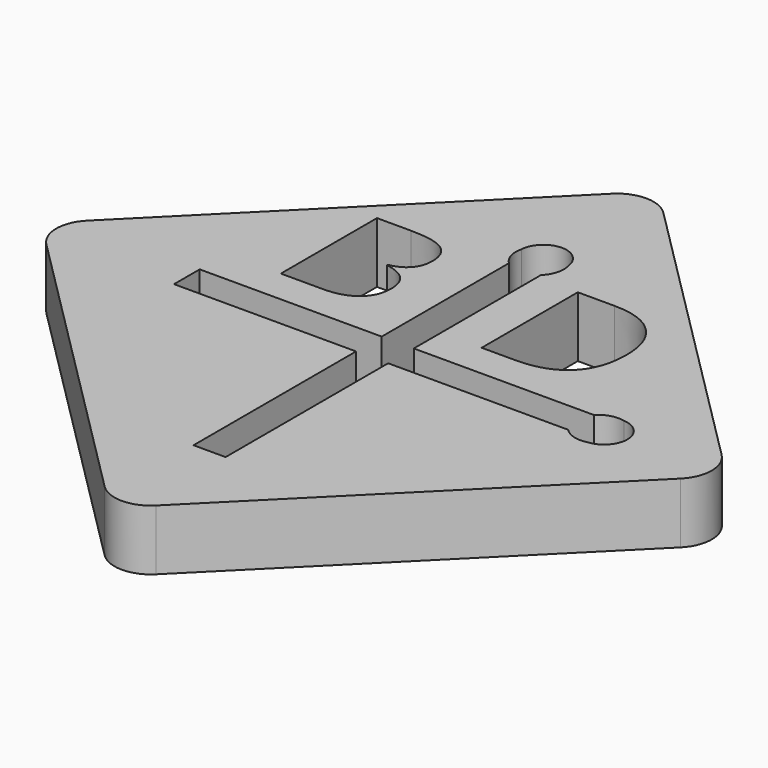
from build123d import *

# Parameters (mm, degrees)
F1_DEPTH = 2.5
F2_R     = 0.85
F3_DEPTH = 12.5


with BuildPart() as f1:
    # F0 (on Top) → F1 (new body)
    with BuildSketch(Plane.XY):
        with BuildLine():
            Line((13.081475452, -13.081475452), (1.0606601718, -1.0606601718))
            ThreePointArc((1.0606601718, -1.0606601718), (0, -0.6213203436), (-1.0606601718, -1.0606601718))
            Line((-1.0606601718, -1.0606601718), (-13.081475452, -13.081475452))
            ThreePointArc((-13.081475452, -13.081475452), (-13.5208152802, -14.1421356237), (-13.081475452, -15.2027957955))
            Line((-13.081475452, -15.2027957955), (-1.0606601718, -27.2236110757))
            ThreePointArc((-1.0606601718, -27.2236110757), (0, -27.6629509039), (1.0606601718, -27.2236110757))
            Line((1.0606601718, -27.2236110757), (13.081475452, -15.2027957955))
            ThreePointArc((13.081475452, -15.2027957955), (13.5208152802, -14.1421356237), (13.081475452, -13.081475452))
        make_face()
        with BuildLine():
            Line((-5.9082568333, -12.0771760074), (-5.9082568333, -7.1194937158))
            Line((-5.9082568333, -7.1194937158), (-4.5074321806, -7.1194937158))
            add(Edge.make_bspline(
                [(-4.5074321806, -7.1194937158), (-3.5211040556, -7.1194937158), (-3.0800233264, -7.4146326047)],
                knots=[0, 0, 0, 1, 1, 1], degree=2))
            add(Edge.make_bspline(
                [(-3.0800233264, -7.4146326047), (-2.6389425972, -7.7097714936), (-2.6389425972, -8.3467072574)],
                knots=[0, 0, 0, 1, 1, 1], degree=2))
            add(Edge.make_bspline(
                [(-2.6389425972, -8.3467072574), (-2.6389425972, -8.7883305213), (-2.8847108264, -9.0747888547)],
                knots=[0, 0, 0, 1, 1, 1], degree=2))
            add(Edge.make_bspline(
                [(-2.8847108264, -9.0747888547), (-3.1304790556, -9.361247188), (-3.6024842639, -9.4458826047)],
                knots=[0, 0, 0, 1, 1, 1], degree=2))
            Line((-3.6024842639, -9.4458826047), (-3.6024842639, -9.4795197574))
            add(Edge.make_bspline(
                [(-3.6024842639, -9.4795197574), (-2.4729269722, -9.6726621186), (-2.4729269722, -10.6665857297)],
                knots=[0, 0, 0, 1, 1, 1], degree=2))
            add(Edge.make_bspline(
                [(-2.4729269722, -10.6665857297), (-2.4729269722, -11.3306482297), (-2.9221457222, -11.7039121186)],
                knots=[0, 0, 0, 1, 1, 1], degree=2))
            add(Edge.make_bspline(
                [(-2.9221457222, -11.7039121186), (-3.3713644722, -12.0771760074), (-4.1786561389, -12.0771760074)],
                knots=[0, 0, 0, 1, 1, 1], degree=2))
            Line((-4.1786561389, -12.0771760074), (-5.9082568333, -12.0771760074))
        make_face(mode=Mode.SUBTRACT)
        with BuildLine():
            Line((-8.1334756687, -14.8039748892), (-8.1334756687, -13.4802963582))
            Line((-8.1334756687, -13.4802963582), (-0.6236797201, -13.4802963582))
            Line((-0.6236797201, -13.4802963582), (-0.6236797201, -6.9198086858))
            ThreePointArc((-0.6236797201, -6.9198086858), (-0.9032194318, -6.4583786209), (-0.9135835525, -5.9189782686))
            ThreePointArc((-0.9135835525, -5.9189782686), (0.0168397474, -5.0141534426), (0.9868078824, -5.876451129))
            ThreePointArc((0.9868078824, -5.876451129), (0.9900106564, -6.4384308628), (0.6999988109, -6.9198086858))
            Line((0.6999988109, -6.9198086858), (0.6999988109, -13.4802963582))
            Line((0.6999988109, -13.4802963582), (8.1334756687, -13.4802963582))
            ThreePointArc((8.1334756687, -13.4802963582), (8.5949057336, -13.2007566465), (9.134306086, -13.1903925258))
            ThreePointArc((9.134306086, -13.1903925258), (10.0391309119, -14.1208158258), (9.1768332255, -15.0907839607))
            ThreePointArc((9.1768332255, -15.0907839607), (8.6148534917, -15.0939867347), (8.1334756687, -14.8039748892))
            Line((8.1334756687, -14.8039748892), (0.6999988109, -14.8039748892))
            Line((0.6999988109, -14.8039748892), (0.6999988109, -23.1867600232))
            Line((0.6999988109, -23.1867600232), (-0.6236797201, -23.1867600232))
            Line((-0.6236797201, -23.1867600232), (-0.6236797201, -14.8039748892))
            Line((-0.6236797201, -14.8039748892), (-8.1334756687, -14.8039748892))
        make_face(mode=Mode.SUBTRACT)
        with BuildLine():
            add(Edge.make_bspline(
                [(5.6933566328, -7.7602282705), (6.3340901397, -8.4009617774), (6.3340901397, -9.5511353885)],
                knots=[0, 0, 0, 1, 1, 1], degree=2))
            add(Edge.make_bspline(
                [(6.3340901397, -9.5511353885), (6.3340901397, -10.7783489302), (5.6678575008, -11.4277629927)],
                knots=[0, 0, 0, 1, 1, 1], degree=2))
            add(Edge.make_bspline(
                [(5.6678575008, -11.4277629927), (5.0016248619, -12.0771770552), (3.7505397925, -12.0771770552)],
                knots=[0, 0, 0, 1, 1, 1], degree=2))
            Line((3.7505397925, -12.0771770552), (2.3768418758, -12.0771770552))
            Line((2.3768418758, -12.0771770552), (2.3768418758, -7.1194947635))
            Line((2.3768418758, -7.1194947635), (3.8959390981, -7.1194947635))
            add(Edge.make_bspline(
                [(3.8959390981, -7.1194947635), (5.0526231258, -7.1194947635), (5.6933566328, -7.7602282705)],
                knots=[0, 0, 0, 1, 1, 1], degree=2))
        make_face(mode=Mode.SUBTRACT)
    extrude(amount=F1_DEPTH)

    # F2 (on Right) → F3 (cut, symmetric)
    with BuildSketch(Plane.YZ):
        with Locations((-2.4908210296, 1.292226194)):
            Circle(F2_R)
    extrude(amount=F3_DEPTH, both=True, mode=Mode.SUBTRACT)


solid = f1.part
